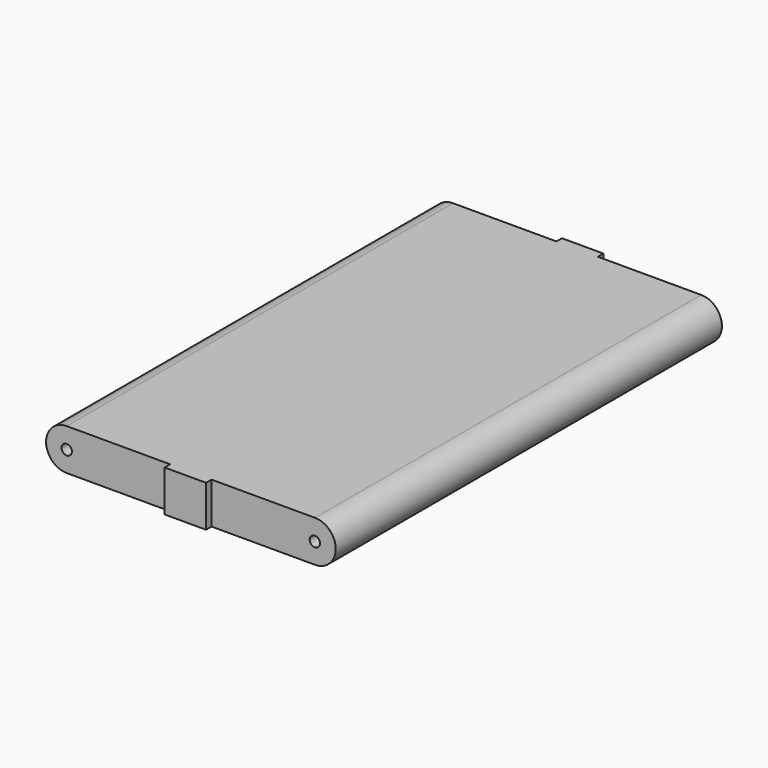
from build123d import *

# Parameters (mm, degrees)
F1_R     = 19.05
F2_DEPTH = 1778
F4_DEPTH = 25.4
F5_W     = 152.4
F5_H     = 152.4
F6_DEPTH = 25.4


with BuildPart() as f2:
    # F1 (on face) → F2 (new body)
    with BuildSketch(Plane.XZ):
        with BuildLine():
            ThreePointArc((808.430407, 0), (884.630407, 76.2), (808.430407, 152.4))
            Line((808.430407, 152.4), (-105.969593, 152.4))
            ThreePointArc((-105.969593, 152.4), (-182.169593, 76.2), (-105.969593, 0))
            Line((-105.969593, 0), (808.430407, 0))
        make_face()
        with Locations((-106.129967, 76.004088)):
            Circle(F1_R, mode=Mode.SUBTRACT)
        with Locations((807.696342, 75.448431)):
            Circle(F1_R, mode=Mode.SUBTRACT)
    extrude(amount=F2_DEPTH)

    # F3 (on face) → F4 (join)
    with BuildSketch(Plane.XZ.offset(1778)):
        Polygon((427.430407, 152.4), (351.230407, 152.4), (275.030407, 152.4), (275.030407, 0), (427.430407, 0), align=None)
    extrude(amount=F4_DEPTH)

    # F5 (on face) → F6 (join)
    with BuildSketch(Plane.XZ):
        with Locations((351.230407, 76.2)):
            Rectangle(F5_W, F5_H)
    extrude(amount=-F6_DEPTH)


solid = f2.part
